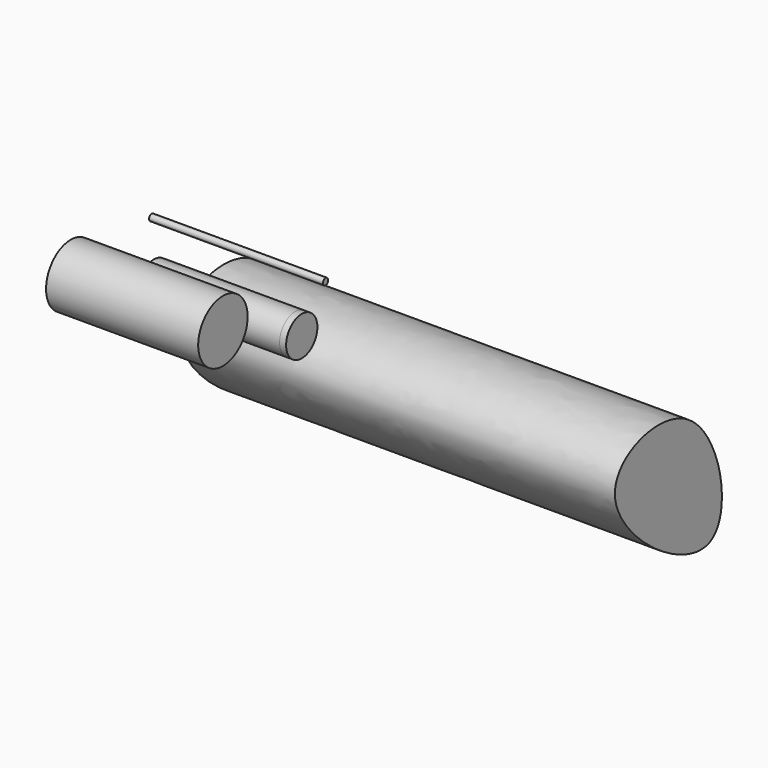
from build123d import *

# Parameters (mm, degrees)
F0_R     = 9
F1_DEPTH = 65
F2_R     = 1.5
F4_DEPTH = 80
F3_R     = 14.208818441
F5_DEPTH = 70
F6_DEPTH = 3
F8_DEPTH = 200


with BuildPart() as f1:
    # F0 (on Right) → F1 (new body)
    with BuildSketch(Plane.YZ):
        with Locations((-14.0047892928, 7.2178528644)):
            Circle(F0_R)
    extrude(amount=F1_DEPTH)


with BuildPart() as f4:
    # F2 (on Right) → F4 (new body)
    with BuildSketch(Plane.YZ):
        with Locations((-15.2975367382, 33.7192229927)):
            Circle(F2_R)
    extrude(amount=F4_DEPTH)


with BuildPart() as f5:
    # F3 (on Right) → F5 (new body)
    with BuildSketch(Plane.YZ):
        with Locations((-61.8365295231, 29.4100549072)):
            Circle(F3_R)
    extrude(amount=F5_DEPTH)


with BuildPart() as f6:
    # F6 (new): a face of the model
    f6_faces = [f1.part.faces().sort_by_distance(p)[0] for p in [
        (65, -14.0047892928, 7.2178528644),
    ]]
    extrude(f6_faces, amount=F6_DEPTH)


with BuildPart() as f8:
    # F7 (on Right) → F8 (new body)
    with BuildSketch(Plane.YZ):
        with BuildLine():
            add(Edge.make_bspline(
                [(1.0470942361, -19.7529066354), (1.1061608381, -4.5411517256), (55.8114533926, 12.9763140505), (76.8106985127, -95.3652337346), (0.9734383007, -38.721934815), (1.0470942361, -19.7529066354)],
                knots=[0, 0, 0, 0, 0.2966848175, 0.6300346215, 1, 1, 1, 1], degree=3))
        make_face()
    extrude(amount=F8_DEPTH)


solid = Compound([f1.part, f4.part, f5.part, f6.part, f8.part])
